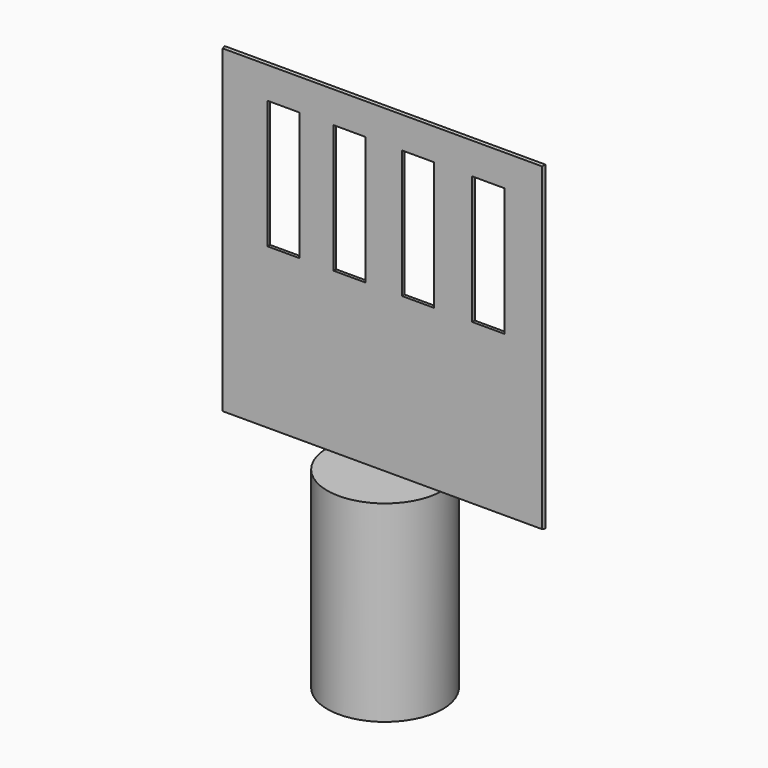
from build123d import *

# Parameters (mm, degrees)
F0_W      = 127
F0_H      = 127
F1_DEPTH  = 1.27
F1_TAPER  = 10
F2_W      = 12.7
F2_H      = 50.8
F3_DEPTH  = 25.4
F4_W      = 12.7
F4_H      = 50.8
F5_DEPTH  = 25.4
F6_W      = 12.7
F6_H      = 50.8
F7_DEPTH  = 25.4
F9_R      = 22.86
F10_DEPTH = 76.2
F12_R     = 5.461
F13_DEPTH = 69.85
F14_W     = 8.89
F14_H     = 8.89
F15_DEPTH = 63.5
F16_W     = 10.5418048302
F16_H     = 8.89
F16_W_2   = 0.8881951698
F17_DEPTH = 8.89
F18_W     = 8.89
F18_H     = 10.16
F19_DEPTH = 25.4
F20_W     = 12.7
F20_H     = 50.8
F21_DEPTH = 25.4


with BuildPart() as f1:
    # F0 (on Front) → F1 (new body)
    with BuildSketch(Plane.XZ):
        Rectangle(F0_W, F0_H)
    extrude(amount=F1_DEPTH, taper=F1_TAPER)

    # F2 (on Front) → F3 (cut)
    with BuildSketch(Plane.XZ):
        with Locations((-39.2489836045, 25.4)):
            Rectangle(F2_W, F2_H)
    extrude(amount=F3_DEPTH, mode=Mode.SUBTRACT)

    # F4 (on Front) → F5 (cut)
    with BuildSketch(Plane.XZ):
        with Locations((-13.0347667253, 25.4)):
            Rectangle(F4_W, F4_H)
    extrude(amount=F5_DEPTH, mode=Mode.SUBTRACT)

    # F6 (on Front) → F7 (cut)
    with BuildSketch(Plane.XZ):
        with Locations((14.1064846767, 25.4)):
            Rectangle(F6_W, F6_H)
    extrude(amount=F7_DEPTH, mode=Mode.SUBTRACT)

    # F20 (on Front) → F21 (cut)
    with BuildSketch(Plane.XZ):
        with Locations((41.9227403533, 25.4)):
            Rectangle(F20_W, F20_H)
    extrude(amount=F21_DEPTH, mode=Mode.SUBTRACT)


with BuildPart() as f10:
    # F9 (on offset) → F10 (new body)
    with BuildSketch(Plane.XY.offset(-63.5)):
        Circle(F9_R)
    extrude(amount=-F10_DEPTH)

    # F12 (on offset) → F13 (cut)
    with BuildSketch(Plane.XY.offset(-76.2)):
        Circle(F12_R)
    extrude(amount=-F13_DEPTH, mode=Mode.SUBTRACT)

    # F14 (on offset) → F15 (cut)
    with BuildSketch(Plane.XY.offset(-76.2)):
        with Locations((7.1619835918, -0.4086584279)):
            Rectangle(F14_W, F14_H)
    extrude(amount=-F15_DEPTH, mode=Mode.SUBTRACT)

    # F16 (on offset) → F17 (cut)
    with BuildSketch(Plane.XY.offset(-76.2)):
        Polygon((2.9842855466, -16.4900656129), (2.9842855466, -16.8343085844), (11.7625715211, -16.8343085844), (11.7625715211, -3.1040124595), (2.9842855466, -3.1040124595), (2.9842855466, -7.6000656129), (3.8724807164, -7.6000656129), (3.8724807164, -16.4900656129), align=None)
        with Locations((-2.2866168685, -12.0450656129)):
            Rectangle(F16_W, F16_H)
        with Locations((3.4283831315, -12.0450656129)):
            Rectangle(F16_W_2, F16_H)
    extrude(amount=-F17_DEPTH, mode=Mode.SUBTRACT)

    # F18 (on offset) → F19 (cut)
    with BuildSketch(Plane.XY.offset(-76.2)):
        with Locations((-7.6468620378, -10.9055079202)):
            Rectangle(F18_W, F18_H)
    extrude(amount=-F19_DEPTH, mode=Mode.SUBTRACT)


solid = Compound([f1.part, f10.part])
